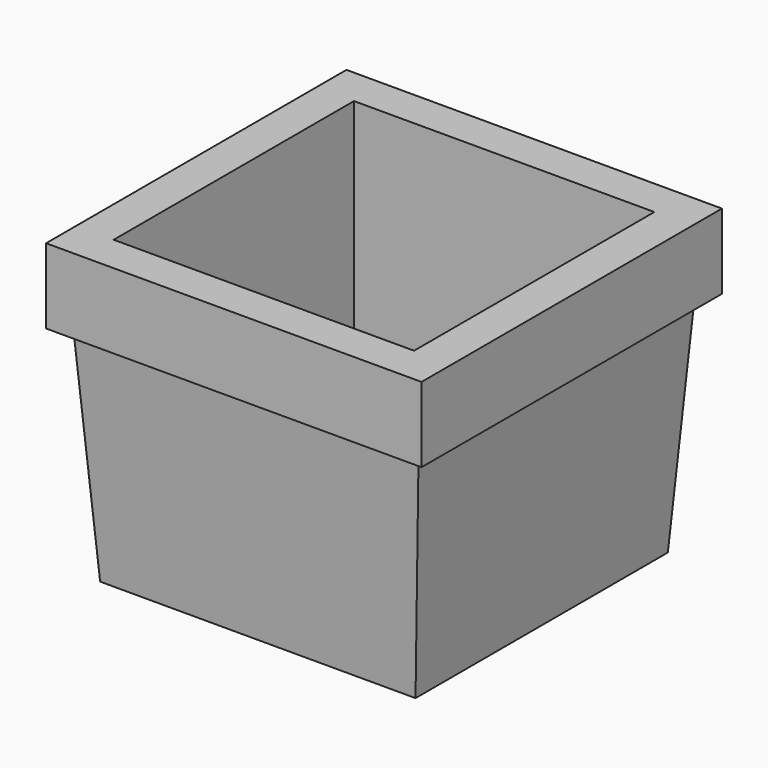
from build123d import *

# Parameters (mm, degrees)
SKETCH_W          = 25
SKETCH_H          = 25
PAD_DEPTH         = 15
SKETCH002_W       = 21
SKETCH002_H       = 21
SKETCH001_W       = 23
SKETCH001_H       = 23
SKETCH004_W       = 25
SKETCH004_H       = 25
PAD001_DEPTH      = 20
BOX_W             = 20
BOX_H             = 20
BOX_DEPTH         = 21
BOX001_W          = 5
BOX001_H          = 5
BOX001_DEPTH      = 5
BOX002_W          = 5
BOX002_H          = 5
BOX002_DEPTH      = 5
BOX003_W          = 5
BOX003_H          = 5
BOX003_DEPTH      = 5
BOX004_W          = 5
BOX004_H          = 5
BOX004_DEPTH      = 5
CYLINDER_R        = 1.5
CYLINDER_DEPTH    = 10
CYLINDER001_R     = 1.5
CYLINDER001_DEPTH = 10
CYLINDER002_R     = 1.5
CYLINDER002_DEPTH = 10
CYLINDER003_R     = 1.5
CYLINDER003_DEPTH = 13


with BuildPart() as body:
    # Sketch → Pad (new body)
    with BuildSketch(Plane.XY):
        Rectangle(SKETCH_W, SKETCH_H)
    extrude(amount=PAD_DEPTH)

    # Sketch002 (on Face5 of Pad) → SubtractiveLoft section 0
    with BuildSketch(Plane(origin=(0, 0, 0), x_dir=(1, 0, 0), z_dir=(0, 0, -1))):
        Rectangle(SKETCH002_W, SKETCH002_H)
    # Sketch001 (on Face6 of Pad) → SubtractiveLoft section 1
    with BuildSketch(Plane.XY.offset(15)):
        Rectangle(SKETCH001_W, SKETCH001_H)
    loft(mode=Mode.SUBTRACT)


with BuildPart() as body001:
    # Sketch004 → Pad001 (new body)
    with BuildSketch(Plane.XY):
        Rectangle(SKETCH004_W, SKETCH004_H)
    extrude(amount=PAD001_DEPTH)

    # Boolean: cut Body
    add(body.part, mode=Mode.SUBTRACT)

    # Box → Box (cut)
    with BuildSketch(Plane(origin=(-10, -10, 0), x_dir=(1, 0, 0), z_dir=(0, 0, 1))):
        with Locations((10, 10)):
            Rectangle(BOX_W, BOX_H)
    extrude(amount=BOX_DEPTH, mode=Mode.SUBTRACT)

    # Box001 → Box001 (join)
    with BuildSketch(Plane(origin=(-10, 10, 0), x_dir=(1, 0, 0), z_dir=(0, -1, 0))):
        with Locations((2.5, 2.5)):
            Rectangle(BOX001_W, BOX001_H)
    extrude(amount=BOX001_DEPTH)

    # Box002 → Box002 (join)
    with BuildSketch(Plane(origin=(10, 10, 5), x_dir=(0, 0, -1), z_dir=(-1, 0, 0))):
        with Locations((2.5, 2.5)):
            Rectangle(BOX002_W, BOX002_H)
    extrude(amount=BOX002_DEPTH)

    # Box003 → Box003 (join)
    with BuildSketch(Plane(origin=(10, -10, 5), x_dir=(0, 0, -1), z_dir=(0, 1, 0))):
        with Locations((2.5, 2.5)):
            Rectangle(BOX003_W, BOX003_H)
    extrude(amount=BOX003_DEPTH)

    # Box004 → Box004 (join)
    with BuildSketch(Plane(origin=(-10, -10, 5), x_dir=(0, 0, -1), z_dir=(1, 0, 0))):
        with Locations((2.5, 2.5)):
            Rectangle(BOX004_W, BOX004_H)
    extrude(amount=BOX004_DEPTH)

    # Cylinder → Cylinder (cut)
    with BuildSketch(Plane(origin=(-7.5, 7.5, -1.5), x_dir=(0, -1, 0), z_dir=(0, 0, 1))):
        Circle(CYLINDER_R)
    extrude(amount=CYLINDER_DEPTH, mode=Mode.SUBTRACT)

    # Cylinder001 → Cylinder001 (cut)
    with BuildSketch(Plane(origin=(7.5, 7.5, -3), x_dir=(0, -1, 0), z_dir=(0, 0, 1))):
        Circle(CYLINDER001_R)
    extrude(amount=CYLINDER001_DEPTH, mode=Mode.SUBTRACT)

    # Cylinder002 → Cylinder002 (cut)
    with BuildSketch(Plane(origin=(7.5, -7.5, -4), x_dir=(0, -1, 0), z_dir=(0, 0, 1))):
        Circle(CYLINDER002_R)
    extrude(amount=CYLINDER002_DEPTH, mode=Mode.SUBTRACT)

    # Cylinder003 → Cylinder003 (cut)
    with BuildSketch(Plane(origin=(-7.5, -7.5, -8), x_dir=(0, -1, 0), z_dir=(0, 0, 1))):
        Circle(CYLINDER003_R)
    extrude(amount=CYLINDER003_DEPTH, mode=Mode.SUBTRACT)


solid = body001.part
